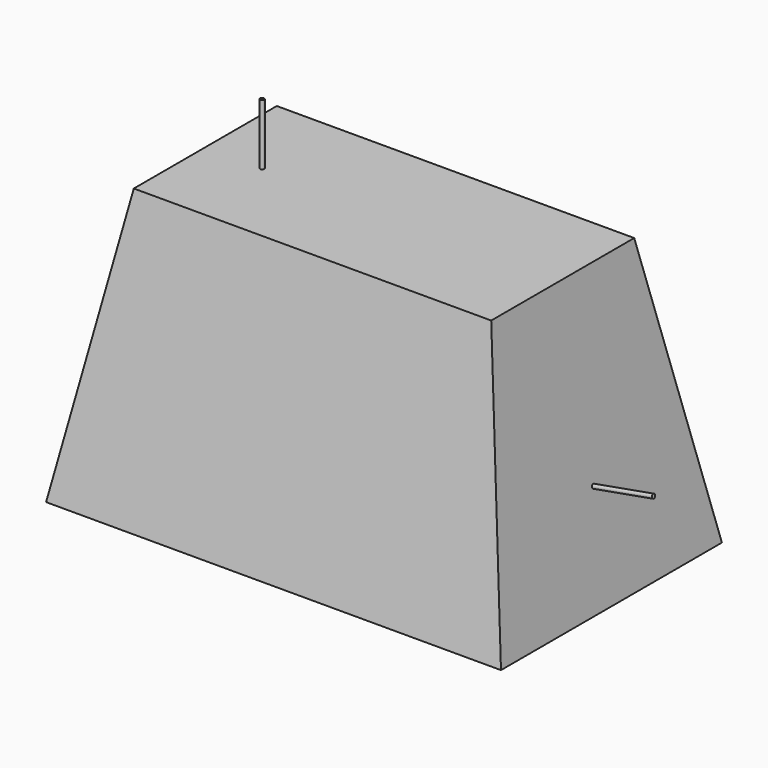
from build123d import *

# Parameters (mm, degrees)
F3_W      = 560
F3_H      = 340
F2_W      = 440
F2_H      = 220
F5_T      = -10
F8_R      = 40
F9_DEPTH  = 25
F10_R     = 20
F11_DEPTH = 25
F15_R     = 5
F6_R      = 2.5
F16_DEPTH = 75
F7_R      = 2.5
F17_DEPTH = 75


with BuildPart() as f4:
    # F3 (on offset) → F4 section 0
    with BuildSketch(Plane.XY.offset(-167.5)):
        Rectangle(F3_W, F3_H)
    # F2 (on offset) → F4 section 1
    with BuildSketch(Plane.XY.offset(167.5)):
        Rectangle(F2_W, F2_H)
    loft()

    # F5
    f5_openings = [f4.faces().sort_by_distance(p)[0] for p in [
        (0, 0, -167.5),
    ]]
    offset(amount=F5_T, openings=f5_openings)

    # F8 (on face) → F9 (join)
    with BuildSketch(Plane(origin=(0, 0, 157.5), x_dir=(1, 0, 0), z_dir=(0, 0, -1))):
        Circle(F8_R)
    extrude(amount=F9_DEPTH)

    # F10 (on face) → F11 (join)
    with BuildSketch(Plane(origin=(0, 0, 132.5), x_dir=(1, 0, 0), z_dir=(0, 0, -1))):
        Circle(F10_R)
    extrude(amount=F11_DEPTH)

    # F13 (on face) → F14 (revolve)
    with BuildSketch(Plane.XZ):
        with BuildLine():
            Line((0, 117.5), (0, 57.5))
            ThreePointArc((0, 57.5), (30, 87.5), (0, 117.5))
        make_face()
    revolve(axis=Axis((0, 0, 87.5), (0, 0, -1)))

    # F15
    f15_edges = [f4.edges().sort_by_distance(p)[0] for p in [
        (-20, 0, 132.5),
        (-40, 0, 132.5),
        (-20, 0, 109.86068),
        (-40, 0, 157.5),
    ]]
    fillet(f15_edges, radius=F15_R)

    # F6 (on face) → F16 (join, symmetric)
    with BuildSketch(Plane.XY.offset(167.5)):
        with Locations((-150, 0)):
            Circle(F6_R)
    extrude(amount=F16_DEPTH, both=True)

    # F7 (on face) → F17 (join, symmetric)
    with BuildSketch(Plane(origin=(242.2296568098, 0, 43.384416145), x_dir=(0, 1, 0), z_dir=(0.9843366432, 0, 0.1762991003))):
        with Locations((0, -89.2401358232)):
            Circle(F7_R)
    extrude(amount=F17_DEPTH, both=True)


solid = f4.part
